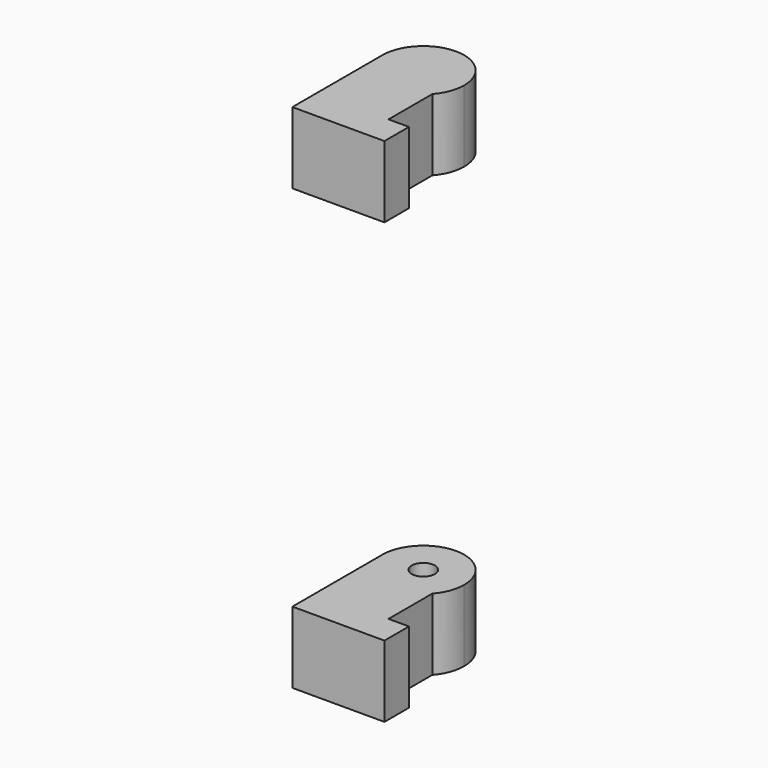
from build123d import *

# Parameters (mm, degrees)
F1_DEPTH = 7
F2_R     = 1.133333
F4_DEPTH = 3


with BuildPart() as f1:
    # F0 (on Top) → F1 (new body)
    with BuildSketch(Plane.XY):
        with BuildLine():
            ThreePointArc((3, 5.354249), (-1.414214, 4.258343), (-4, 8))
            Line((-4, 8), (-4, -3))
            Line((-4, -3), (5, -3))
            Line((5, -3), (5, 0))
            Line((5, 0), (3, 0))
            Line((3, 0), (3, 5.354249))
        make_face()
        with BuildLine():
            ThreePointArc((3, 5.354249), (3.741657, 6.585786), (4, 8))
            ThreePointArc((4, 8), (0, 12), (-4, 8))
            ThreePointArc((-4, 8), (-1.414214, 4.258343), (3, 5.354249))
        make_face()
    extrude(amount=F1_DEPTH)

    # F2 (on face) → F4 (cut)
    with BuildSketch(Plane.XY.offset(7)):
        with Locations((0, 8)):
            Circle(F2_R)
    extrude(amount=-F4_DEPTH, mode=Mode.SUBTRACT)


with BuildPart() as f5_1:
    # F5: instance of F1
    add(f1.part.mirror(Plane.XY.offset(25)))


solid = Compound([f1.part, f5_1.part])
